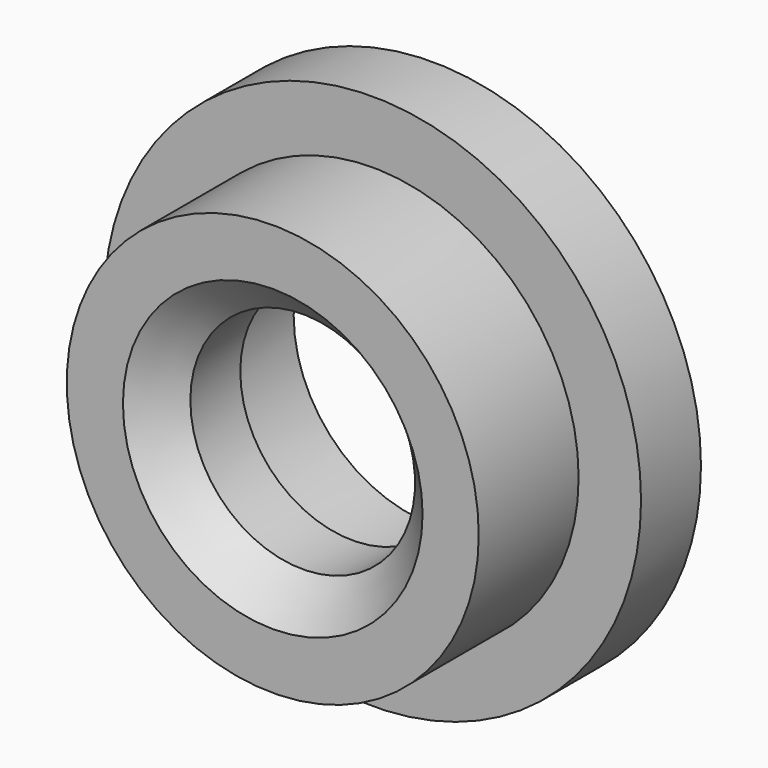
from build123d import *

# Parameters (mm, degrees)
F0_R     = 21.5
F1_DEPTH = 6
F2_R     = 16.5
F3_DEPTH = 10
F4_R     = 11.125
F5_DEPTH = 8
F6_R     = 9
F7_DEPTH = 8.001
F8_SIZE  = 3


with BuildPart() as f1:
    # F0 (on Front) → F1 (new body)
    with BuildSketch(Plane.XZ):
        Circle(F0_R)
    extrude(amount=-F1_DEPTH)

    # F2 (on face) → F3 (join)
    with BuildSketch(Plane.XZ):
        Circle(F2_R)
    extrude(amount=F3_DEPTH)

    # F4 (on face) → F5 (cut, through all)
    with BuildSketch(Plane(origin=(0, 6, 0), x_dir=(-1, 0, 0), z_dir=(0, 1, 0))):
        Circle(F4_R)
    extrude(amount=-F5_DEPTH, mode=Mode.SUBTRACT)

    # F6 (on face) → F7 (cut, through all)
    with BuildSketch(Plane(origin=(0, -2, 0), x_dir=(-1, 0, 0), z_dir=(0, 1, 0))):
        Circle(F6_R)
    extrude(amount=-F7_DEPTH, mode=Mode.SUBTRACT)

    # F8
    f8_edges = [f1.edges().sort_by_distance(p)[0] for p in [
        (9, -10, 0),
    ]]
    chamfer(f8_edges, length=F8_SIZE)


solid = f1.part
